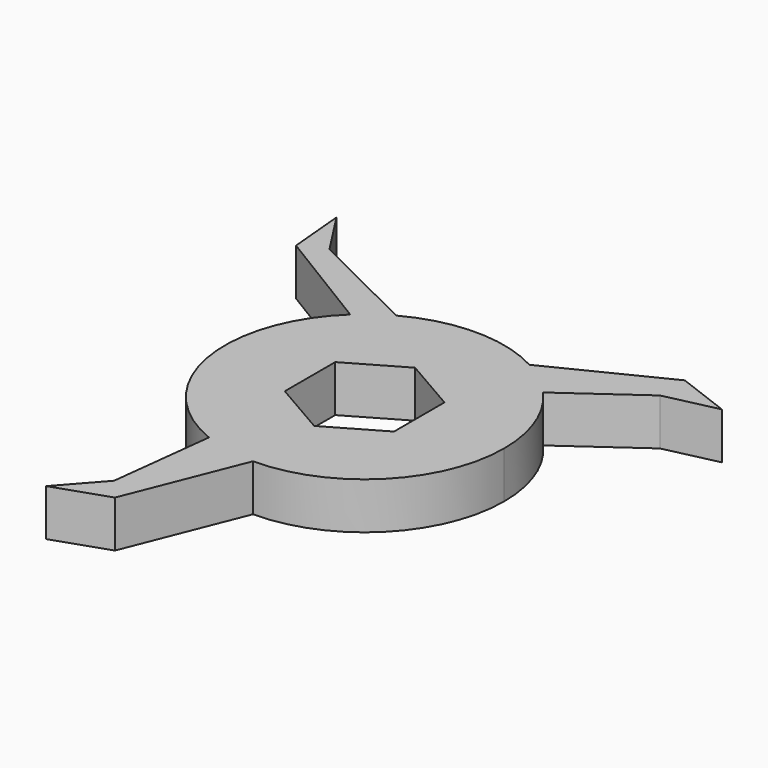
from build123d import *

# Parameters (mm, degrees)
F1_DEPTH = 4.7752


with BuildPart() as f1:
    # F0 (on Top) → F1 (new body)
    with BuildSketch(Plane.XY):
        with BuildLine():
            ThreePointArc((0, -14.2875), (10.102788, -10.102788), (14.2875, 0))
            ThreePointArc((14.2875, 0), (13.352709, 5.083092), (10.670657, 9.501038))
            ThreePointArc((10.670657, 9.501038), (8.8793, 11.193332), (6.823789, 12.552631))
            ThreePointArc((6.823789, 12.552631), (0, 14.2875), (-6.823789, 12.552631))
            ThreePointArc((-6.823789, 12.552631), (-8.378626, 11.572869), (-9.794834, 10.401629))
            ThreePointArc((-9.794834, 10.401629), (-14.038835, -2.654008), (-5.321776, -13.259388))
            ThreePointArc((-5.321776, -13.259388), (-2.710088, -14.028117), (0, -14.2875))
        make_face()
        Polygon((0, 6.452467), (5.588, 3.226233), (5.588, -3.226233), (0, -6.452467), (-5.588, -3.226233), (-5.588, 3.226233), align=None, mode=Mode.SUBTRACT)
        with BuildLine():
            ThreePointArc((6.823789, 12.552631), (8.8793, 11.193332), (10.670657, 9.501038))
            Line((10.670657, 9.501038), (18.278274, 14.925111))
            Line((18.278274, 14.925111), (23.655374, 16.136199))
            Line((23.655374, 16.136199), (18.193959, 18.210304))
            Line((18.193959, 18.210304), (6.823789, 12.552631))
        make_face()
        with BuildLine():
            Line((-4.692118, -26.088942), (0, -14.2875))
            ThreePointArc((0, -14.2875), (-2.710088, -14.028117), (-5.321776, -13.259388))
            Line((-5.321776, -13.259388), (-6.564544, -23.848076))
            Line((-6.564544, -23.848076), (-10.222673, -27.970943))
            Line((-10.222673, -27.970943), (-4.692118, -26.088942))
        make_face()
        with BuildLine():
            ThreePointArc((-9.794834, 10.401629), (-8.378626, 11.572869), (-6.823789, 12.552631))
            Line((-6.823789, 12.552631), (-18.160994, 18.210304))
            Line((-18.160994, 18.210304), (-21.156305, 22.837187))
            Line((-21.156305, 22.837187), (-20.634899, 17.018501))
            Line((-20.634899, 17.018501), (-9.794834, 10.401629))
        make_face()
    extrude(amount=F1_DEPTH)


solid = f1.part
